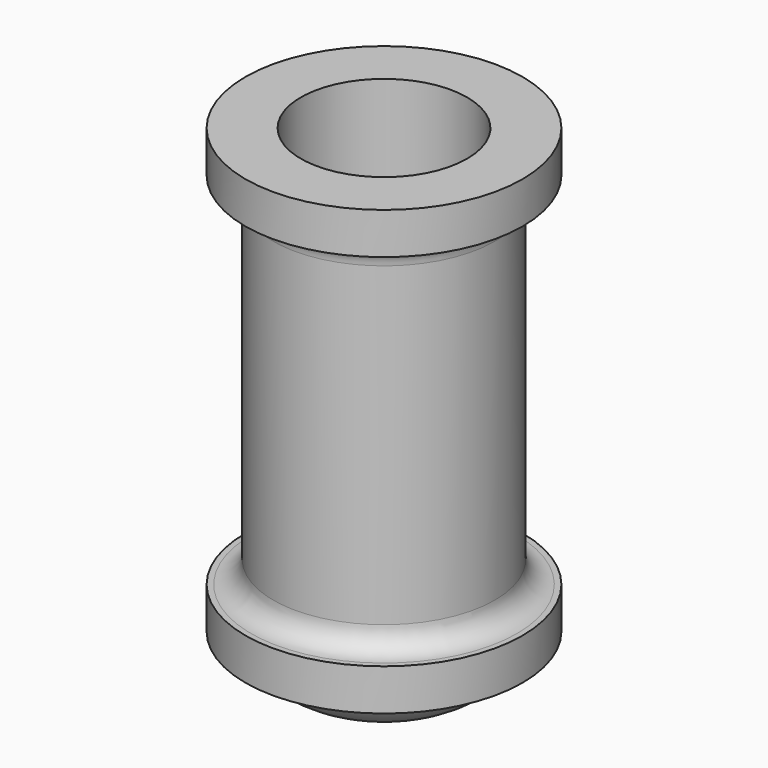
from build123d import *

# Parameters (mm, degrees)
F0_R     = 25.4
F1_DEPTH = 101.6
F4_W     = 31.75
F4_H     = 9.525
F6_R     = 5.08
F7_R     = 19.05
F8_DEPTH = 95.25


with BuildPart() as f1:
    # F0 (on Top) → F1 (new body)
    with BuildSketch(Plane.XY):
        Circle(F0_R)
    extrude(amount=F1_DEPTH)

    # F2 (on Front) → F3 (revolve)
    with BuildSketch(Plane.XZ):
        with BuildLine():
            Line((0, -12.8230312839), (0, 0))
            Line((0, 0), (-25.4, 0))
            add(Edge.make_bspline(
                [(-25.4, 0), (-25.4, -7.7090621926), (-11.6054195191, -12.8230312839), (0, -12.8230312839)],
                knots=[0, 0, 0, 0, 28.4532973715, 28.4532973715, 28.4532973715, 28.4532973715], degree=3))
        make_face()
    revolve(axis=Axis((0, 0, -6.411515642), (0, 0, -1)))

    # F4 (on Front) → F5 (revolve)
    with BuildSketch(Plane.XZ):
        with Locations((15.875, 4.7625)):
            Rectangle(F4_W, F4_H)
        with Locations((15.875, 96.8375)):
            Rectangle(F4_W, F4_H)
    revolve(axis=Axis((0, 0, 4.7625), (0, 0, 1)))

    # F6
    f6_edges = [f1.edges().sort_by_distance(p)[0] for p in [
        (-25.4, 0, 92.075),
        (-25.4, 0, 9.525),
    ]]
    fillet(f6_edges, radius=F6_R)

    # F7 (on face) → F8 (cut)
    with BuildSketch(Plane.XY.offset(101.6)):
        Circle(F7_R)
    extrude(amount=-F8_DEPTH, mode=Mode.SUBTRACT)


solid = f1.part
